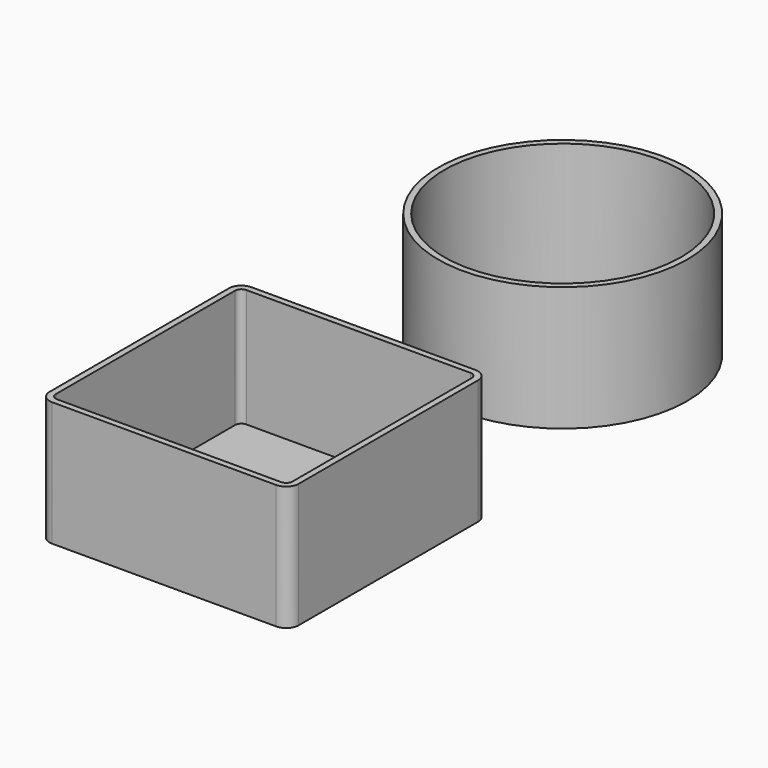
from build123d import *

# Parameters (mm, degrees)
F0_R     = 10
F0_R_2   = 9.5
F1_DEPTH = 10
F3_DEPTH = 10
F4_T     = -0.5


with BuildPart() as f1:
    # F0 (on Top) → F1 (new body)
    with BuildSketch(Plane.XY):
        Circle(F0_R)
        Circle(F0_R_2, mode=Mode.SUBTRACT)
    extrude(amount=F1_DEPTH)


with BuildPart() as f3:
    # F2 (on Top) → F3 (new body)
    with BuildSketch(Plane.XY):
        with BuildLine():
            Line((-9, -40), (9, -40))
            ThreePointArc((9, -40), (9.707107, -39.707107), (10, -39))
            Line((10, -39), (10, -21))
            ThreePointArc((10, -21), (9.707107, -20.292893), (9, -20))
            Line((9, -20), (-9, -20))
            ThreePointArc((-9, -20), (-9.707107, -20.292893), (-10, -21))
            Line((-10, -21), (-10, -39))
            ThreePointArc((-10, -39), (-9.707107, -39.707107), (-9, -40))
        make_face()
    extrude(amount=F3_DEPTH)

    # F4
    f4_openings = [f3.faces().sort_by_distance(p)[0] for p in [
        (0, -30, 10),
    ]]
    offset(amount=F4_T, openings=f4_openings)


solid = Compound([f1.part, f3.part])
